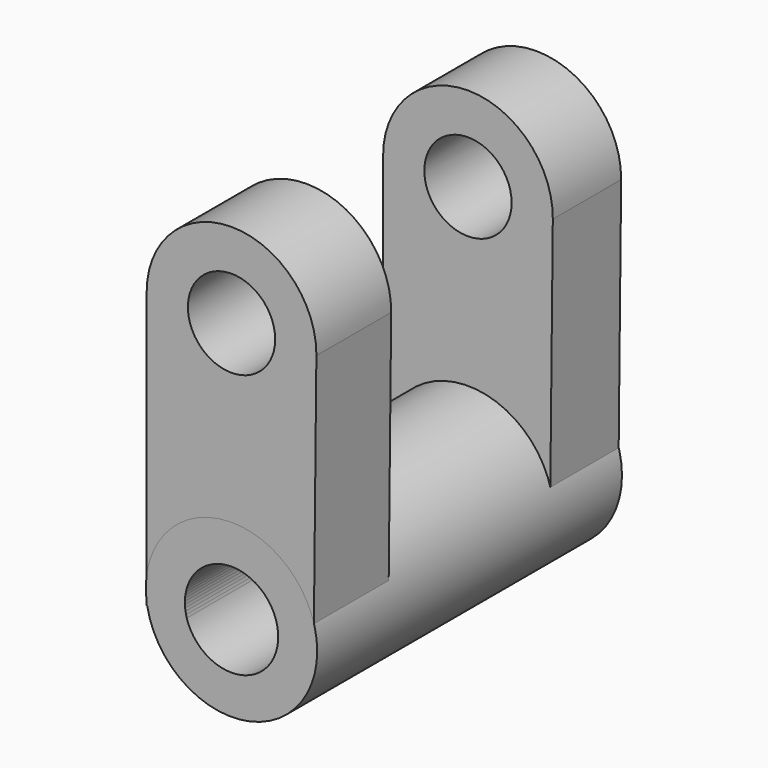
from build123d import *

# Parameters (mm, degrees)
F1_DEPTH      = 38.1
F1_DEPTH_BACK = 38.1
F3_DEPTH      = 16.9724266167
F3_DEPTH_BACK = 16.9724266167
F4_R          = 17.1371283182
F5_DEPTH      = 38.1
F5_DEPTH_BACK = 38.1
F6_R          = 9.3396405189
F7_DEPTH      = 76.201
F8_R          = 8.7289393375
F9_DEPTH      = 76.201


with BuildPart() as f1:
    # F0 (on Front) → F1 (new body, two sides)
    with BuildSketch(Plane.XZ) as f1_sk:
        with BuildLine():
            ThreePointArc((16.9704964699, 37.3450435441), (16.9711940784, 37.4338834352), (16.9714266167, 37.5227257609))
            ThreePointArc((16.9714266167, 37.5227257609), (0, 54.4941523776), (-16.9714266167, 37.5227257609))
            ThreePointArc((-16.9714266167, 37.5227257609), (-0.0888423257, 20.5515316826), (16.9704964699, 37.3450435441))
        make_face()
        with BuildLine():
            ThreePointArc((16.9704964699, 37.3450435441), (-0.0888423257, 20.5515316826), (-16.9714266167, 37.5227257609))
            Line((-16.9714266167, 37.5227257609), (-16.9714266167, -17.664546147))
            Line((-16.9714266167, -17.664546147), (16.3945443928, -17.664546147))
            Line((16.3945443928, -17.664546147), (16.9704964699, 37.3450435441))
        make_face()
    extrude(amount=F1_DEPTH)
    extrude(f1_sk.sketch, amount=-F1_DEPTH_BACK)

    # F2 (on Right) → F3 (cut, two sides)
    with BuildSketch(Plane.YZ) as f3_sk:
        Polygon((21.0127271712, 62.691822648), (-19.3963646889, 59.690002352), (-19.3963646889, -24.5918184519), (21.0127271712, -24.5918184519), align=None)
    extrude(amount=F3_DEPTH, mode=Mode.SUBTRACT)
    extrude(f3_sk.sketch, amount=-F3_DEPTH_BACK, mode=Mode.SUBTRACT)


with BuildPart() as f5:
    # F4 (on Front) → F5 (new body, two sides)
    with BuildSketch(Plane.XZ) as f5_sk:
        with Locations((0, -14.6627277136)):
            Circle(F4_R)
    extrude(amount=F5_DEPTH)
    extrude(f5_sk.sketch, amount=-F5_DEPTH_BACK)


with BuildPart() as f7_tool:
    # F6 (on face) → F7 (new body, through all)
    with BuildSketch(Plane(origin=(0, 38.1, 0), x_dir=(-1, 0, 0), z_dir=(0, 1, 0))):
        with Locations((0, -14.6627277136)):
            Circle(F6_R)
    extrude(amount=-F7_DEPTH)


with BuildPart() as f1_1:
    add(f1.part)

    # F7: cut by f7_tool
    add(f7_tool.part, mode=Mode.SUBTRACT)

    # F8 (on face) → F9 (cut, through all)
    with BuildSketch(Plane.XZ.offset(38.1)):
        with Locations((0, 37.5227257609)):
            Circle(F8_R)
    extrude(amount=-F9_DEPTH, mode=Mode.SUBTRACT)


with BuildPart() as f5_1:
    add(f5.part)

    # F7: cut by f7_tool
    add(f7_tool.part, mode=Mode.SUBTRACT)


solid = Compound([f1_1.part, f5_1.part])
